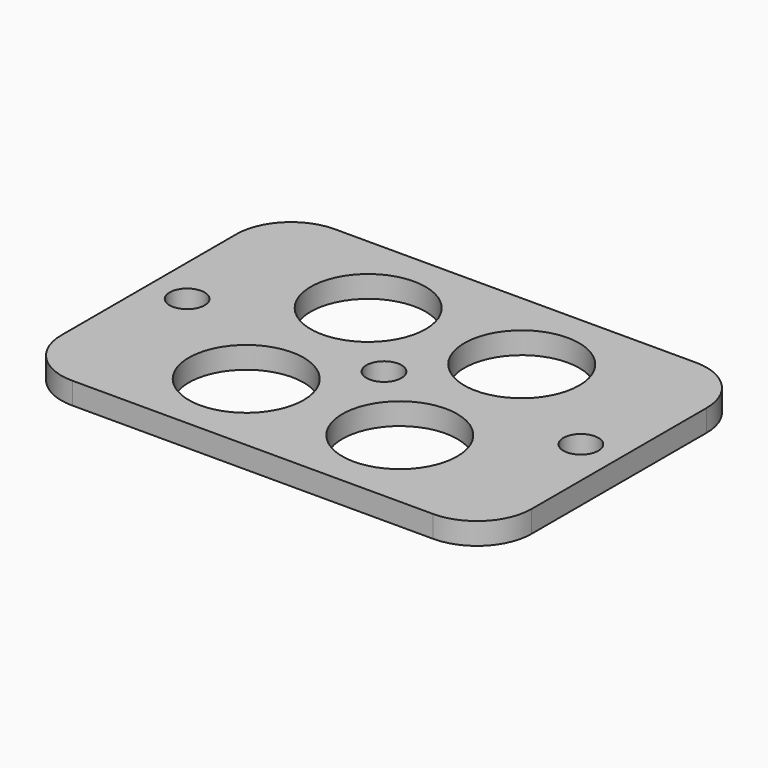
from build123d import *

# Parameters (mm, degrees)
SKETCH_W   = 43
SKETCH_H   = 30
SKETCH_R   = 5.25
SKETCH_R_2 = 1.6
PAD_DEPTH  = 2
FILLET_R   = 5


with BuildPart() as part:
    # Sketch → Pad (new body)
    with BuildSketch(Plane.XY):
        with Locations((21.5, 15)):
            Rectangle(SKETCH_W, SKETCH_H)
        with Locations((14.474775, 21.974684)):
            Circle(SKETCH_R, mode=Mode.SUBTRACT)
        with Locations((28.474684, 22.025225)):
            Circle(SKETCH_R, mode=Mode.SUBTRACT)
        with Locations((14.525316, 7.974775)):
            Circle(SKETCH_R, mode=Mode.SUBTRACT)
        with Locations((28.525225, 8.025316)):
            Circle(SKETCH_R, mode=Mode.SUBTRACT)
        with Locations((21.5, 15)):
            Circle(SKETCH_R_2, mode=Mode.SUBTRACT)
        with Locations((3.5, 15)):
            Circle(SKETCH_R_2, mode=Mode.SUBTRACT)
        with Locations((39.5, 15)):
            Circle(SKETCH_R_2, mode=Mode.SUBTRACT)
    extrude(amount=PAD_DEPTH)

    # Fillet
    fillet_edges = [part.edges().sort_by_distance(p)[0] for p in [
        (43, 0, 1),
        (43, 30, 1),
        (0, 0, 1),
        (0, 30, 1),
    ]]
    fillet(fillet_edges, radius=FILLET_R)


solid = part.part
